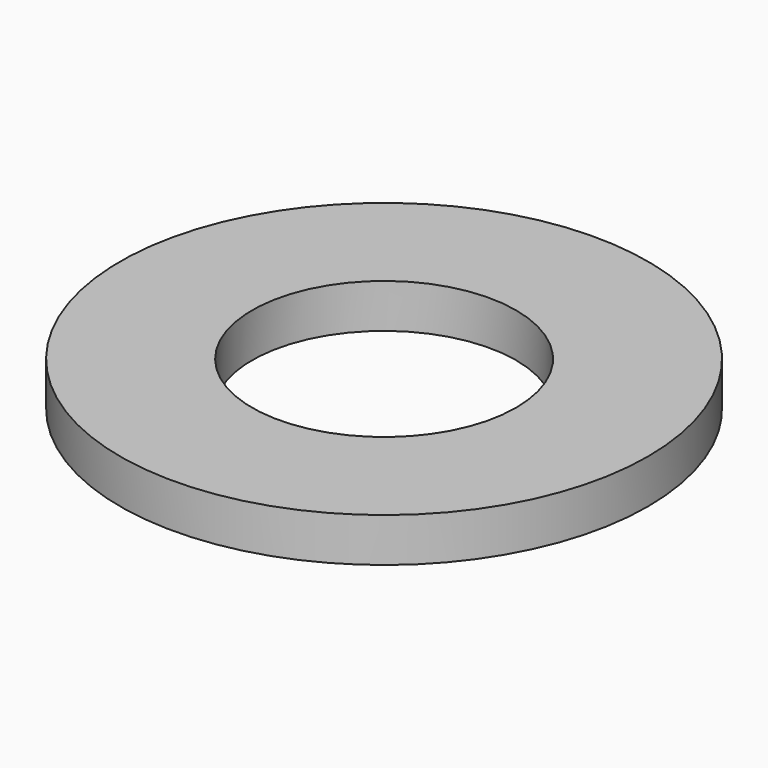
from build123d import *

# Parameters (mm, degrees)
F0_R     = 19.05
F0_R_2   = 9.525
F1_DEPTH = 3.175
F2_DEPTH = 3.175


with BuildPart() as f1:
    # F0 (on Top) → F1 (new body)
    with BuildSketch(Plane.XY):
        Circle(F0_R)
        Circle(F0_R_2, mode=Mode.SUBTRACT)
    extrude(amount=F1_DEPTH)

    # F0 (on Top) → F2 (join)
    with BuildSketch(Plane.XY):
        Circle(F0_R)
        Circle(F0_R_2, mode=Mode.SUBTRACT)
    extrude(amount=F2_DEPTH)


solid = f1.part
